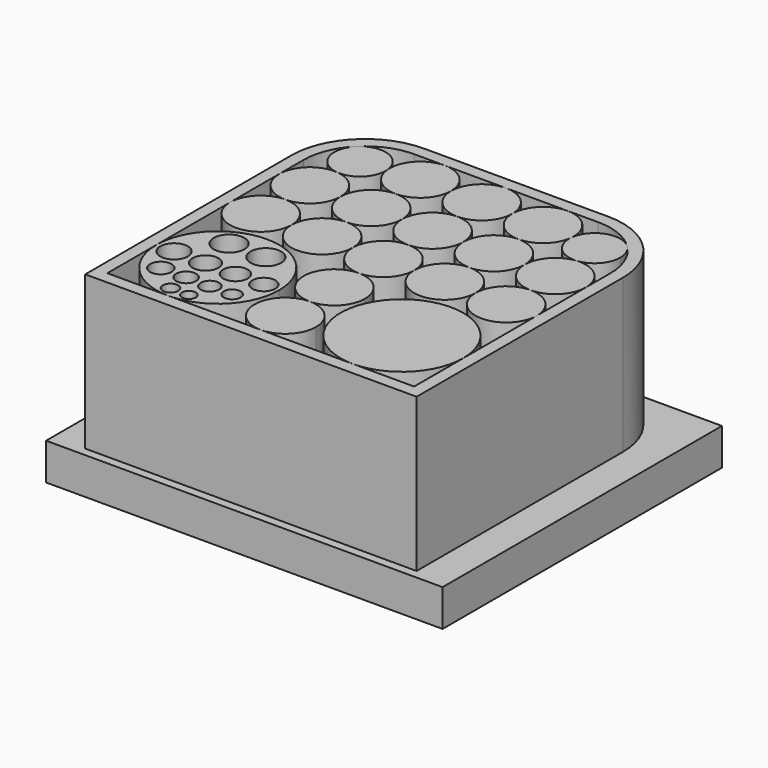
from build123d import *

# Parameters (mm, degrees)
F1_DEPTH = 152.4
F0_R     = 6.35
F0_R_2   = 8.89
F0_R_3   = 11.43
F0_R_4   = 8.255
F0_R_5   = 10.795
F0_R_6   = 5.715
F0_R_7   = 7.62
F0_R_8   = 6.985
F0_R_9   = 10.16
F0_R_10  = 9.525
F0_R_11  = 12.7
F2_DEPTH = 152.4
F4_W     = 328.241661191
F4_H     = 289.0596538782
F5_DEPTH = 30.48


with BuildPart() as f1:
    # F0 (on Top) → F1 (new body)
    with BuildSketch(Plane.XY):
        with BuildLine():
            ThreePointArc((-101.6, 25.4), (-83.6394877579, 32.8394877579), (-76.2, 50.8))
            ThreePointArc((-76.2, 50.8), (-82.801618866, 67.8815943852), (-99.174871397, 76.083962333))
            ThreePointArc((-99.174871397, 76.083962333), (-118.6815943852, 69.598381134), (-127, 50.8))
            ThreePointArc((-127, 50.8), (-119.5605122421, 32.8394877579), (-101.6, 25.4))
        make_face()
    extrude(amount=F1_DEPTH)


with BuildPart() as f1b:
    # F0 (on Top) → F1, piece 2 (new body)
    with BuildSketch(Plane.XY):
        with BuildLine():
            ThreePointArc((-25.4, 50.8), (-32.8394877579, 68.7605122421), (-50.8, 76.2))
            ThreePointArc((-50.8, 76.2), (-68.7605122421, 68.7605122421), (-76.2, 50.8))
            ThreePointArc((-76.2, 50.8), (-68.7605121971, 32.8394877128), (-50.7999998726, 25.4))
            ThreePointArc((-50.7999998726, 25.4), (-32.8394877128, 32.8394878029), (-25.4, 50.8))
        make_face()
    extrude(amount=F1_DEPTH)


with BuildPart() as f1c:
    # F0 (on Top) → F1, piece 3 (new body)
    with BuildSketch(Plane.XY):
        with BuildLine():
            ThreePointArc((25.4, 50.8), (17.9605122421, 68.7605122421), (0, 76.2))
            ThreePointArc((0, 76.2), (-17.9605122421, 68.7605122421), (-25.4, 50.8))
            ThreePointArc((-25.4, 50.8), (-17.9605122543, 32.83948777), (-3.45e-08, 25.4))
            ThreePointArc((-3.45e-08, 25.4), (17.96051223, 32.8394877457), (25.4, 50.8))
        make_face()
    extrude(amount=F1_DEPTH)


with BuildPart() as f1d:
    # F0 (on Top) → F1, piece 4 (new body)
    with BuildSketch(Plane.XY):
        with BuildLine():
            ThreePointArc((25.4, 0), (17.96051223, 17.9605122543), (-3.45e-08, 25.4))
            ThreePointArc((-3.45e-08, 25.4), (-17.9605122543, 17.96051223), (-25.4, 0))
            ThreePointArc((-25.4, 0), (-17.9605122421, -17.9605122421), (0, -25.4))
            ThreePointArc((0, -25.4), (17.9605122421, -17.9605122421), (25.4, 0))
        make_face()
    extrude(amount=F1_DEPTH)


with BuildPart() as f1e:
    # F0 (on Top) → F1, piece 5 (new body)
    with BuildSketch(Plane.XY):
        with BuildLine():
            ThreePointArc((-25.4, 0), (-32.8394877128, 17.9605121971), (-50.7999998726, 25.4))
            ThreePointArc((-50.7999998726, 25.4), (-68.7605121971, 17.9605122872), (-76.2, 0))
            ThreePointArc((-76.2, 0), (-50.8, -25.4), (-25.4, 0))
        make_face()
    extrude(amount=F1_DEPTH)


with BuildPart() as f1f:
    # F0 (on Top) → F1, piece 6 (new body)
    with BuildSketch(Plane.XY):
        with BuildLine():
            ThreePointArc((-76.2, 0), (-83.6394877579, 17.9605122421), (-101.6, 25.4))
            ThreePointArc((-101.6, 25.4), (-119.5605122421, 17.9605122421), (-127, 0))
            ThreePointArc((-127, 0), (-101.6, -25.4), (-76.2, 0))
        make_face()
    extrude(amount=F1_DEPTH)


with BuildPart() as f1g:
    # F0 (on Top) → F1, piece 7 (new body)
    with BuildSketch(Plane.XY):
        with BuildLine():
            ThreePointArc((-75.9872642825, 97.1539309492), (-76.0114525811, 98.1655564898), (-76.0839621944, 99.1748699517))
            ThreePointArc((-76.0839621944, 99.1748699517), (-89.9976749384, 117.0741663315), (-112.1210245567, 112.1210244118))
            ThreePointArc((-112.1210245567, 112.1210244118), (-117.0741665422, 89.9976755251), (-99.174871397, 76.083962333))
            ThreePointArc((-99.174871397, 76.083962333), (-82.9192689411, 81.488613356), (-75.9872642825, 97.1539309492))
        make_face()
    extrude(amount=F1_DEPTH)


with BuildPart() as f1h:
    # F0 (on Top) → F1, piece 8 (new body)
    with BuildSketch(Plane.XY):
        with BuildLine():
            ThreePointArc((-25.4, 101.6), (-32.8394877579, 119.5605122421), (-50.8, 127))
            ThreePointArc((-50.8, 127), (-69.5983816222, 118.681593848), (-76.0839621944, 99.1748699517))
            ThreePointArc((-76.0839621944, 99.1748699517), (-67.881593848, 82.8016183778), (-50.8, 76.2))
            ThreePointArc((-50.8, 76.2), (-32.8394877579, 83.6394877579), (-25.4, 101.6))
        make_face()
    extrude(amount=F1_DEPTH)


with BuildPart() as f1i:
    # F0 (on Top) → F1, piece 9 (new body)
    with BuildSketch(Plane.XY):
        with BuildLine():
            ThreePointArc((25.4, 101.6), (17.9605122448, 119.5605122394), (7.7e-09, 127))
            ThreePointArc((7.7e-09, 127), (-17.9605122394, 119.5605122448), (-25.4, 101.6))
            ThreePointArc((-25.4, 101.6), (-17.9605122421, 83.6394877579), (0, 76.2))
            ThreePointArc((0, 76.2), (17.9605122421, 83.6394877579), (25.4, 101.6))
        make_face()
    extrude(amount=F1_DEPTH)


with BuildPart() as f1j:
    # F0 (on Top) → F1, piece 10 (new body)
    with BuildSketch(Plane.XY):
        with BuildLine():
            ThreePointArc((76.2, 101.6), (68.7605122421, 119.5605122421), (50.8, 127))
            ThreePointArc((50.8, 127), (32.8394877579, 119.5605122421), (25.4, 101.6))
            ThreePointArc((25.4, 101.6), (32.8394877579, 83.6394877579), (50.8, 76.2))
            ThreePointArc((50.8, 76.2), (67.88159445, 82.8016189248), (76.0839623497, 99.1748715711))
            ThreePointArc((76.0839623497, 99.1748715711), (76.1709740026, 100.3860485355), (76.2, 101.6))
        make_face()
    extrude(amount=F1_DEPTH)


with BuildPart() as f1k:
    # F0 (on Top) → F1, piece 11 (new body)
    with BuildSketch(Plane.XY):
        with BuildLine():
            ThreePointArc((118.3205973914, 97.1539312252), (116.7093808027, 105.2540639168), (112.1210241623, 112.1210248063))
            ThreePointArc((112.1210241623, 112.1210248063), (89.9976753838, 117.0741666712), (76.0839623483, 99.1748715712))
            ThreePointArc((76.0839623483, 99.1748715712), (82.1868373501, 82.18683783), (99.1748710489, 76.0839627103))
            ThreePointArc((99.1748710489, 76.0839627103), (112.8192482704, 82.9192692131), (118.3205973914, 97.1539312252))
        make_face()
    extrude(amount=F1_DEPTH)


with BuildPart() as f1l:
    # F0 (on Top) → F1, piece 12 (new body)
    with BuildSketch(Plane.XY):
        with BuildLine():
            ThreePointArc((76.2, 50.8), (68.7605122421, 68.7605122421), (50.8, 76.2))
            ThreePointArc((50.8, 76.2), (32.8394877579, 68.7605122421), (25.4, 50.8))
            ThreePointArc((25.4, 50.8), (32.8394877579, 32.8394877579), (50.8, 25.4))
            ThreePointArc((50.8, 25.4), (68.7605122421, 32.8394877579), (76.2, 50.8))
        make_face()
    extrude(amount=F1_DEPTH)


with BuildPart() as f1m:
    # F0 (on Top) → F1, piece 13 (new body)
    with BuildSketch(Plane.XY):
        with BuildLine():
            ThreePointArc((101.6, 25.4), (119.5605122421, 32.8394877579), (127, 50.8))
            ThreePointArc((127, 50.8), (118.6815942703, 69.5983812384), (99.1748710879, 76.0839623034))
            ThreePointArc((99.1748710879, 76.0839623034), (82.8016187616, 67.8815942703), (76.2, 50.8))
            ThreePointArc((76.2, 50.8), (83.6394877579, 32.8394877579), (101.6, 25.4))
        make_face()
    extrude(amount=F1_DEPTH)


with BuildPart() as f1n:
    # F0 (on Top) → F1, piece 14 (new body)
    with BuildSketch(Plane.XY):
        with BuildLine():
            ThreePointArc((76.2, 0), (101.6, -25.4), (127, 0))
            ThreePointArc((127, 0), (119.5605122421, 17.9605122421), (101.6, 25.4))
            ThreePointArc((101.6, 25.4), (83.6394877579, 17.9605122421), (76.2, 0))
        make_face()
    extrude(amount=F1_DEPTH)


with BuildPart() as f1o:
    # F0 (on Top) → F1, piece 15 (new body)
    with BuildSketch(Plane.XY):
        with BuildLine():
            ThreePointArc((76.2, 0), (68.7605122421, 17.9605122421), (50.8, 25.4))
            ThreePointArc((50.8, 25.4), (32.8394877579, 17.9605122421), (25.4, 0))
            ThreePointArc((25.4, 0), (50.8, -25.4), (76.2, 0))
        make_face()
    extrude(amount=F1_DEPTH)


with BuildPart() as f1p:
    # F0 (on Top) → F1, piece 16 (new body)
    with BuildSketch(Plane.XY):
        with BuildLine():
            ThreePointArc((76.2, -127), (112.1210244843, -112.1210244843), (127, -76.2))
            ThreePointArc((127, -76.2), (40.2789755157, -40.2789755157), (76.2, -127))
        make_face()
    extrude(amount=F1_DEPTH)


with BuildPart() as f1q:
    # F0 (on Top) → F1, piece 17 (new body)
    with BuildSketch(Plane.XY):
        with BuildLine():
            ThreePointArc((-1.744e-07, -76.2), (-25.4, -101.6000000872), (0, -127))
            ThreePointArc((0, -127), (17.9605122421, -119.5605122421), (25.4, -101.6))
            ThreePointArc((25.4, -101.6), (17.9605121805, -83.6394876962), (-1.744e-07, -76.2))
        make_face()
    extrude(amount=F1_DEPTH)


with BuildPart() as f1r:
    # F0 (on Top) → F1, piece 18 (new body)
    with BuildSketch(Plane.XY):
        with BuildLine():
            ThreePointArc((-25.4, -76.2), (-76.2000002061, -25.4), (-127, -76.2000004122))
            ThreePointArc((-127, -76.2000004122), (-112.1210241928, -112.1210247758), (-76.1999995878, -127))
            ThreePointArc((-76.1999995878, -127), (-40.27897537, -112.1210243385), (-25.4, -76.2))
        make_face()
        with Locations((-82.0552291667, -117.8272225882)):
            Circle(F0_R, mode=Mode.SUBTRACT)
        with Locations((-104.5087096774, -99.7598356616)):
            Circle(F0_R_2, mode=Mode.SUBTRACT)
        with Locations((-112.395, -76.2)):
            Circle(F0_R_3, mode=Mode.SUBTRACT)
        with Locations((-83.5537096774, -99.7598356616)):
            Circle(F0_R_4, mode=Mode.SUBTRACT)
        with Locations((-86.36, -76.2)):
            Circle(F0_R_5, mode=Mode.SUBTRACT)
        with Locations((-66.8152291667, -117.8272225882)):
            Circle(F0_R_6, mode=Mode.SUBTRACT)
        with Locations((-63.8687096774, -99.7598356616)):
            Circle(F0_R_7, mode=Mode.SUBTRACT)
        with Locations((-45.4537096774, -99.7598356616)):
            Circle(F0_R_8, mode=Mode.SUBTRACT)
        with Locations((-61.595, -76.2)):
            Circle(F0_R_9, mode=Mode.SUBTRACT)
        with Locations((-38.1, -76.2)):
            Circle(F0_R_10, mode=Mode.SUBTRACT)
        with Locations((-91.44, -45.482797979)):
            Circle(F0_R_11, mode=Mode.SUBTRACT)
        with Locations((-60.96, -45.482797979)):
            Circle(F0_R_11, mode=Mode.SUBTRACT)
    extrude(amount=F1_DEPTH)


with BuildPart() as f1s:
    # F0 (on Top) → F1, piece 19 (new body)
    with BuildSketch(Plane.XY):
        with BuildLine():
            ThreePointArc((25.4, -50.8), (17.9605122421, -32.8394877579), (0, -25.4))
            ThreePointArc((0, -25.4), (-25.4, -50.7999999128), (-1.744e-07, -76.2))
            ThreePointArc((-1.744e-07, -76.2), (17.9605121805, -68.7605123038), (25.4, -50.8))
        make_face()
    extrude(amount=F1_DEPTH)


with BuildPart() as f2:
    # F0 (on Top) → F2 (new body)
    with BuildSketch(Plane.XY):
        with BuildLine():
            Line((137.16, -137.16), (137.16, 76.2))
            ThreePointArc((137.16, 76.2), (119.3052293811, 119.3052293811), (76.2, 137.16))
            Line((76.2, 137.16), (-76.2, 137.16))
            ThreePointArc((-76.2, 137.16), (-119.3052293811, 119.3052293811), (-137.16, 76.2))
            Line((-137.16, 76.2), (-137.16, -137.16))
            Line((-137.16, -137.16), (137.16, -137.16))
        make_face()
        with BuildLine():
            Line((50.8, 127), (76.2, 127))
            ThreePointArc((76.2, 127), (95.6403181538, 123.1330803387), (112.1210241623, 112.1210248063))
            ThreePointArc((112.1210241623, 112.1210248063), (123.1330801644, 95.6403185745), (127, 76.2))
            Line((127, 76.2), (127, 50.8))
            Line((127, 50.8), (127, 0))
            Line((127, 0), (127, -76.2))
            Line((127, -76.2), (127, -127))
            Line((127, -127), (76.2, -127))
            Line((76.2, -127), (0, -127))
            Line((0, -127), (-76.1999995878, -127))
            Line((-76.1999995878, -127), (-127, -127))
            Line((-127, -127), (-127, -76.2000004122))
            Line((-127, -76.2000004122), (-127, 0))
            Line((-127, 0), (-127, 50.8))
            Line((-127, 50.8), (-127, 76.2))
            ThreePointArc((-127, 76.2), (-123.1330802712, 95.6403183168), (-112.1210245567, 112.1210244118))
            ThreePointArc((-112.1210245567, 112.1210244118), (-95.6403184115, 123.133080232), (-76.2, 127))
            Line((-76.2, 127), (-50.8, 127))
            Line((-50.8, 127), (7.7e-09, 127))
            Line((7.7e-09, 127), (50.8, 127))
        make_face(mode=Mode.SUBTRACT)
    extrude(amount=F2_DEPTH)


with BuildPart() as f5:
    # F4 (on offset) → F5 (new body)
    with BuildSketch(Plane.XY.offset(25.4)):
        with Locations((0.2853646874, 0.2010837197)):
            Rectangle(F4_W, F4_H)
    extrude(amount=-F5_DEPTH)


solid = Compound([f1.part, f1b.part, f1c.part, f1d.part, f1e.part, f1f.part, f1g.part, f1h.part, f1i.part, f1j.part, f1k.part, f1l.part, f1m.part, f1n.part, f1o.part, f1p.part, f1q.part, f1r.part, f1s.part, f2.part, f5.part])
